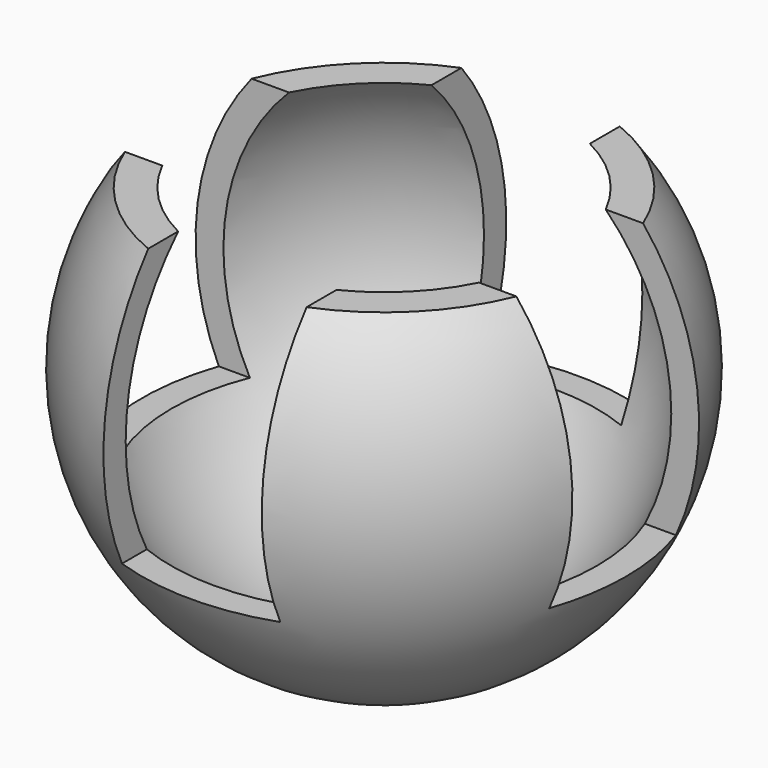
from build123d import *

# Parameters (mm, degrees)
BOX004_W               = 6
BOX004_H               = 20
BOX004_DEPTH           = 20
BOX004_PLACEMENT_ANGLE = 90
BOX003_W               = 6
BOX003_H               = 20
BOX003_DEPTH           = 20
BOX001_W               = 20
BOX001_H               = 20
BOX001_DEPTH           = 20
THICKNESS_T            = -1


with BuildPart() as cube004:
    # Box004 → Box004 (new body)
    with BuildSketch(Plane.XY):
        with Locations((3, 10)):
            Rectangle(BOX004_W, BOX004_H)
    extrude(amount=BOX004_DEPTH)


with BuildPart() as cube004_1:
    # Box004 placement: moved
    add(cube004.part.moved(Location((10, -3, -4))).rotate(Axis((10, -3, -4), (0, 0, 1)), BOX004_PLACEMENT_ANGLE))


with BuildPart() as fusion:
    # Box003 → Box003 (new body)
    with BuildSketch(Plane(origin=(-3, -10, -4), x_dir=(1, 0, 0), z_dir=(0, 0, 1))):
        with Locations((3, 10)):
            Rectangle(BOX003_W, BOX003_H)
    extrude(amount=BOX003_DEPTH)

    # Fusion: union Cube004
    add(cube004_1.part)


with BuildPart() as cube001:
    # Box001 → Box001 (new body)
    with BuildSketch(Plane(origin=(-10, -10, 6), x_dir=(1, 0, 0), z_dir=(0, 0, 1))):
        with Locations((10, 10)):
            Rectangle(BOX001_W, BOX001_H)
    extrude(amount=BOX001_DEPTH)


with BuildPart() as cut001:
    # Sphere → Sphere (revolve)
    with BuildSketch(Plane.XZ):
        with BuildLine():
            ThreePointArc((0, -10), (10, 0), (0, 10))
            Line((0, 10), (0, -10))
        make_face()
    revolve(axis=Axis((0, 0, 0), (0, 0, 1)))

    # Cut: cut Cube001
    add(cube001.part, mode=Mode.SUBTRACT)

    # Thickness
    thickness_openings = [cut001.faces().sort_by_distance(p)[0] for p in [
        (0, 0, 6),
    ]]
    offset(amount=THICKNESS_T, openings=thickness_openings, kind=Kind.INTERSECTION)

    # Cut001: cut Fusion
    add(fusion.part, mode=Mode.SUBTRACT)


solid = cut001.part
